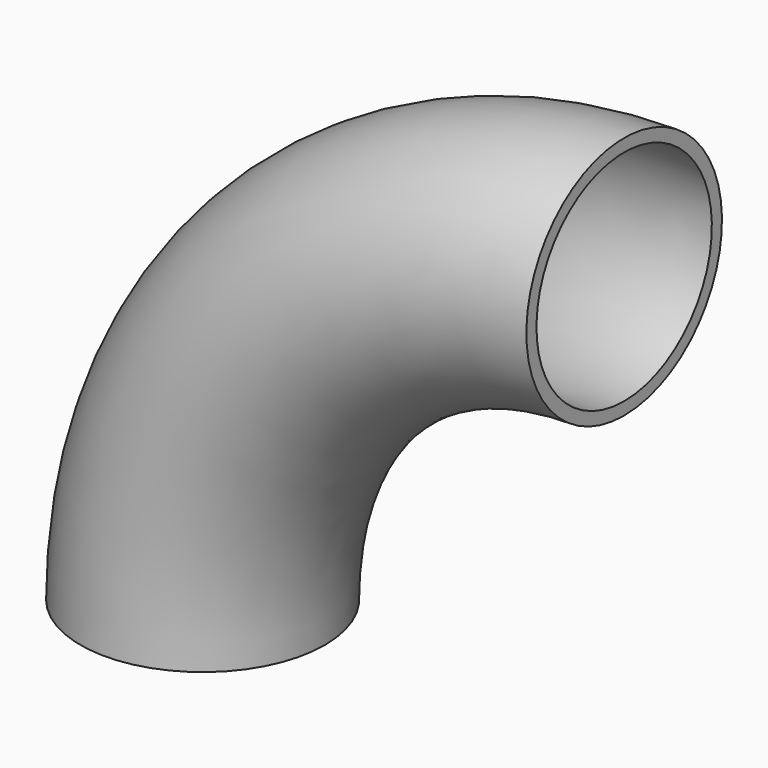
from build123d import *

# Parameters (mm, degrees)
F1_R   = 14.5
F1_R_2 = 13


with BuildPart() as f2:
    # F2: sweep along a path in F0
    with BuildLine(Plane.XZ) as f2_path:
        ThreePointArc((0, 50), (-35.3553390593, 35.3553390593), (-50, 0))
    # F1 (on Top) → F2 (sweep)
    with BuildSketch(Plane.XY):
        with Locations((-50, 0)):
            Circle(F1_R)
        with Locations((-50, 0)):
            Circle(F1_R_2, mode=Mode.SUBTRACT)
    sweep(path=f2_path.line)


solid = f2.part
